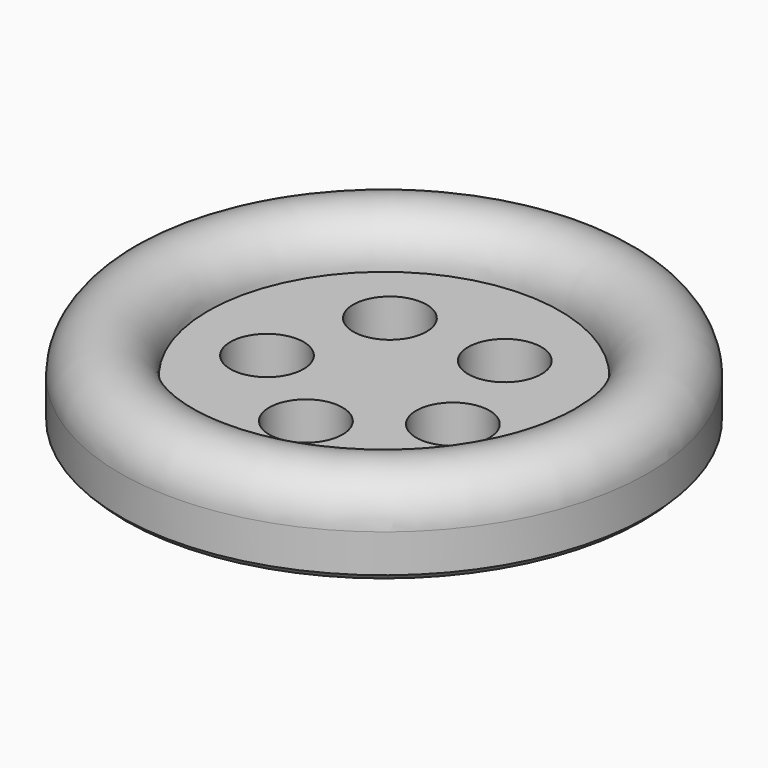
from build123d import *

# Parameters (mm, degrees)
F2_SIZE  = 0.2
F3_R     = 1.25
F4_DEPTH = 1.501


with BuildPart() as f1:
    # F0 (on Front) → F1 (revolve)
    with BuildSketch(Plane.XZ):
        with BuildLine():
            Line((7.5, -1.5), (9, -1.5))
            Line((9, -1.5), (9, 0))
            ThreePointArc((9, 0), (8.56066, -1.06066), (7.5, -1.5))
        make_face()
        with BuildLine():
            Line((0, -1.5), (7.5, -1.5))
            ThreePointArc((7.5, -1.5), (6.43934, -1.06066), (6, 0))
            Line((6, 0), (0, 0))
            Line((0, 0), (0, -1.5))
        make_face()
        with BuildLine():
            ThreePointArc((6, 0), (6.43934, -1.06066), (7.5, -1.5))
            ThreePointArc((7.5, -1.5), (8.56066, -1.06066), (9, 0))
            ThreePointArc((9, 0), (7.5, 1.5), (6, 0))
        make_face()
    revolve(axis=Axis((0, 0, 0), (0, 0, -1)))

    # F2
    f2_edges = [f1.edges().sort_by_distance(p)[0] for p in [
        (-9, 0, -1.5),
    ]]
    chamfer(f2_edges, length=F2_SIZE)

    # F3 (on face) → F4 (cut, through all)
    with BuildSketch(Plane.XY):
        with Locations((-1.95877, 2.696016)):
            Circle(F3_R)
        with Locations((1.95877, 2.696016)):
            Circle(F3_R)
        with Locations((3.169357, -1.029787)):
            Circle(F3_R)
        with Locations((0, -3.332459)):
            Circle(F3_R)
        with Locations((-3.169357, -1.029787)):
            Circle(F3_R)
    extrude(amount=-F4_DEPTH, mode=Mode.SUBTRACT)


solid = f1.part
